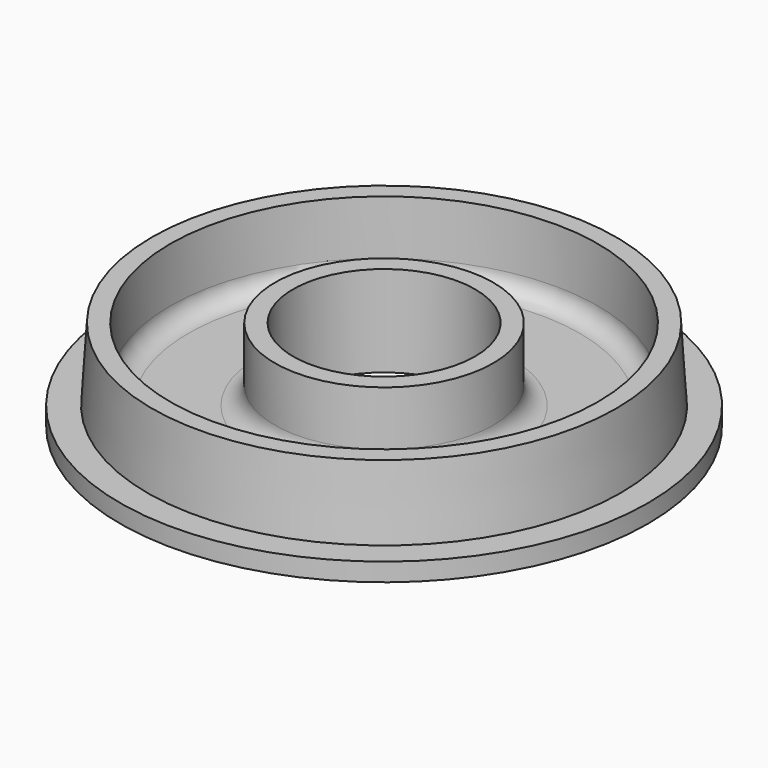
from build123d import *

# Parameters (mm, degrees)
F2_R = 2


with BuildPart() as f1:
    # F0 (on Front) → F1 (revolve)
    with BuildSketch(Plane.XZ):
        Polygon((12, 10), (10, 10), (10, 0), (29, 0), (29, 2), (26, 2), (25.5, 10), (23.5, 10), (23.5, 2), (12, 2), align=None)
    revolve(axis=Axis((0, 0, 23.204782), (0, 0, -1)))

    # F2
    f2_edges = [f1.edges().sort_by_distance(p)[0] for p in [
        (-12, 0, 2),
        (-23.5, 0, 2),
    ]]
    fillet(f2_edges, radius=F2_R)


solid = f1.part
